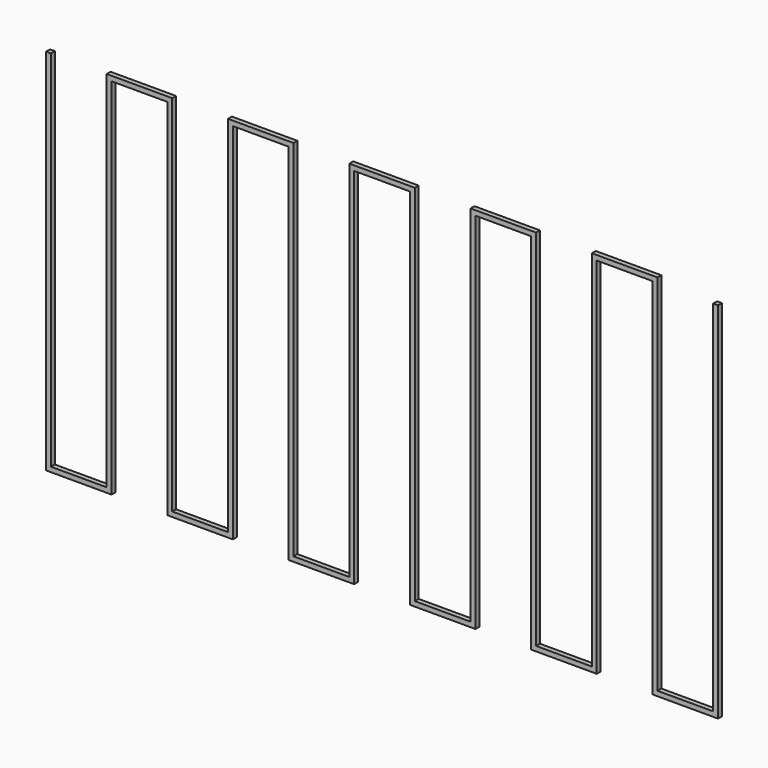
from build123d import *

# Parameters (mm, degrees)
F0_W     = 2
F0_H     = 150
F1_DEPTH = 2


with BuildPart() as f1:
    # F0 (on Front) → F1 (new body)
    with BuildSketch(Plane.XZ):
        with Locations((-46.259482, 50.57682)):
            Rectangle(F0_W, F0_H)
        Polygon((227.740518, 123.57682), (227.740518, -24.42318), (227.740518, -26.42318), (229.740518, -26.42318), (229.740518, 123.57682), align=None)
        Polygon((-45.259482, -24.42318), (-47.259482, -24.42318), (-47.259482, -26.42318), (-22.259482, -26.42318), (-22.259482, -24.42318), align=None)
        Polygon((-22.259482, 123.57682), (-22.259482, -24.42318), (-22.259482, -26.42318), (-20.259482, -26.42318), (-20.259482, 123.57682), align=None)
        Polygon((-22.259482, 125.57682), (-22.259482, 123.57682), (-20.259482, 123.57682), (2.740518, 123.57682), (2.740518, 125.57682), align=None)
        Polygon((2.740518, 125.57682), (2.740518, 123.57682), (2.740518, -24.42318), (4.740518, -24.42318), (4.740518, 125.57682), align=None)
        Polygon((4.740518, -24.42318), (2.740518, -24.42318), (2.740518, -26.42318), (27.740518, -26.42318), (27.740518, -24.42318), align=None)
        Polygon((27.740518, 123.57682), (27.740518, -24.42318), (27.740518, -26.42318), (29.740518, -26.42318), (29.740518, 123.57682), align=None)
        Polygon((27.740518, 125.57682), (27.740518, 123.57682), (29.740518, 123.57682), (52.740518, 123.57682), (52.740518, 125.57682), align=None)
        Polygon((52.740518, 125.57682), (52.740518, 123.57682), (52.740518, -24.42318), (54.740518, -24.42318), (54.740518, 125.57682), align=None)
        Polygon((54.740518, -24.42318), (52.740518, -24.42318), (52.740518, -26.42318), (77.740518, -26.42318), (77.740518, -24.42318), align=None)
        Polygon((77.740518, 123.57682), (77.740518, -24.42318), (77.740518, -26.42318), (79.740518, -26.42318), (79.740518, 123.57682), align=None)
        Polygon((77.740518, 125.57682), (77.740518, 123.57682), (79.740518, 123.57682), (102.740518, 123.57682), (102.740518, 125.57682), align=None)
        Polygon((102.740518, 125.57682), (102.740518, 123.57682), (102.740518, -24.42318), (104.740518, -24.42318), (104.740518, 125.57682), align=None)
        Polygon((104.740518, -24.42318), (102.740518, -24.42318), (102.740518, -26.42318), (127.740518, -26.42318), (127.740518, -24.42318), align=None)
        Polygon((127.740518, 123.57682), (127.740518, -24.42318), (127.740518, -26.42318), (129.740518, -26.42318), (129.740518, 123.57682), align=None)
        Polygon((127.740518, 125.57682), (127.740518, 123.57682), (129.740518, 123.57682), (152.740518, 123.57682), (152.740518, 125.57682), align=None)
        Polygon((152.740518, 125.57682), (152.740518, 123.57682), (152.740518, -24.42318), (154.740518, -24.42318), (154.740518, 125.57682), align=None)
        Polygon((154.740518, -24.42318), (152.740518, -24.42318), (152.740518, -26.42318), (177.740518, -26.42318), (177.740518, -24.42318), align=None)
        Polygon((177.740518, 123.57682), (177.740518, -24.42318), (177.740518, -26.42318), (179.740518, -26.42318), (179.740518, 123.57682), align=None)
        Polygon((177.740518, 125.57682), (177.740518, 123.57682), (179.740518, 123.57682), (202.740518, 123.57682), (202.740518, 125.57682), align=None)
        Polygon((202.740518, 125.57682), (202.740518, 123.57682), (202.740518, -24.42318), (204.740518, -24.42318), (204.740518, 125.57682), align=None)
        Polygon((204.740518, -24.42318), (202.740518, -24.42318), (202.740518, -26.42318), (227.740518, -26.42318), (227.740518, -24.42318), align=None)
    extrude(amount=F1_DEPTH)


solid = f1.part
